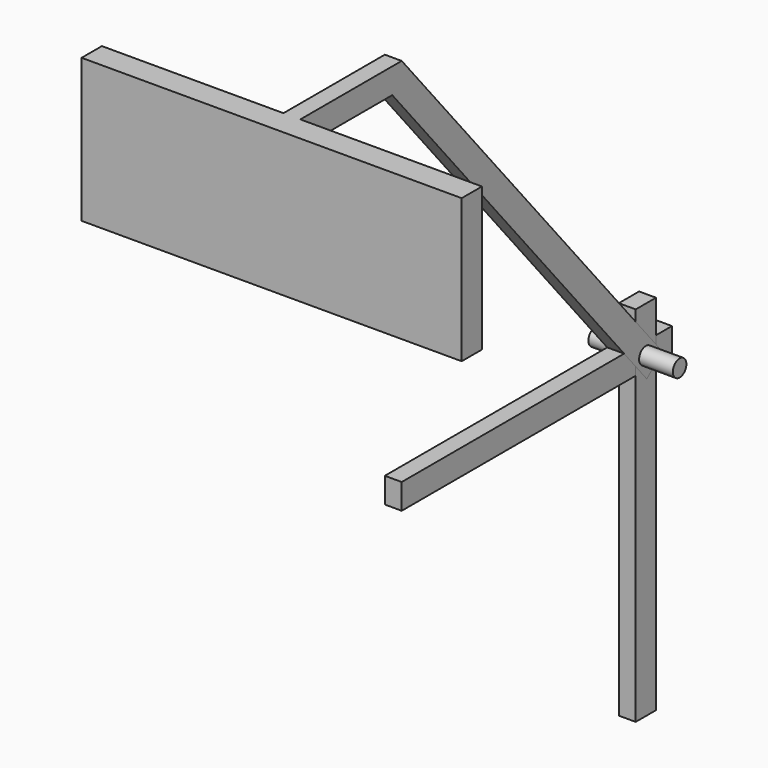
from build123d import *

# Parameters (mm, degrees)
F0_R     = 1
F1_DEPTH = 1
F2_DEPTH = 1
F3_DEPTH = 1
F4_DEPTH = 22.5
F5_DEPTH = 5


with BuildPart() as f1:
    # F0 (on Right) → F1 (new body, symmetric)
    with BuildSketch(Plane.YZ):
        Polygon((51.1326146971, -37.4407144668), (49.4158543164, -35.3947591154), (16.5, -35.3947591154), (16.5, -38.3947591154), (51.1326146971, -38.3947591154), align=None)
        Polygon((51.1326146971, -35.3947591154), (49.4158543164, -35.3947591154), (51.1326146971, -37.4407144668), align=None)
        Polygon((54.1326146971, -36.348803764), (53.3320761844, -35.3947591154), (51.1326146971, -35.3947591154), (51.1326146971, -37.4407144668), (51.9331532099, -38.3947591154), (53.956431962, -38.3947591154), (54.1326146971, -38.2469242473), align=None)
        with Locations((52.6326146971, -36.8947591154)):
            Circle(F0_R, mode=Mode.SUBTRACT)
        Polygon((51.9331532099, -38.3947591154), (51.1326146971, -37.4407144668), (51.1326146971, -38.3947591154), align=None)
        Polygon((54.1326146971, -35.3947591154), (53.3320761844, -35.3947591154), (54.1326146971, -36.348803764), align=None)
        Polygon((54.1326146971, -35.3947591154), (54.1326146971, -36.348803764), (55.0672565812, -37.4626665871), (54.1326146971, -38.2469242473), (54.1326146971, -38.3947591154), (56.5, -38.3947591154), (56.5, -35.3947591154), align=None)
        Polygon((55.0672565812, -37.4626665871), (54.1326146971, -36.348803764), (54.1326146971, -38.2469242473), align=None)
        Polygon((54.1326146971, -38.3947591154), (54.1326146971, -38.2469242473), (53.956431962, -38.3947591154), align=None)
    extrude(amount=F1_DEPTH, both=True)


with BuildPart() as f2:
    # F0 (on Right) → F2 (new body, symmetric)
    with BuildSketch(Plane.YZ):
        Polygon((51.1326146971, -31.4790881872), (51.1326146971, -32.7735429862), (53.3320761844, -35.3947591154), (54.1326146971, -35.3947591154), (54.1326146971, -31.4790881872), align=None)
        Polygon((53.3320761844, -35.3947591154), (51.1326146971, -32.7735429862), (51.1326146971, -35.3947591154), align=None)
        Polygon((54.1326146971, -36.348803764), (53.3320761844, -35.3947591154), (51.1326146971, -35.3947591154), (51.1326146971, -37.4407144668), (51.9331532099, -38.3947591154), (53.956431962, -38.3947591154), (54.1326146971, -38.2469242473), align=None)
        with Locations((52.6326146971, -36.8947591154)):
            Circle(F0_R, mode=Mode.SUBTRACT)
        Polygon((51.9331532099, -38.3947591154), (51.1326146971, -37.4407144668), (51.1326146971, -38.3947591154), align=None)
        Polygon((54.1326146971, -35.3947591154), (53.3320761844, -35.3947591154), (54.1326146971, -36.348803764), align=None)
        Polygon((52.7691232518, -39.3910294162), (51.9331532099, -38.3947591154), (51.1326146971, -38.3947591154), (51.1326146971, -74.4790881872), (54.1326146971, -74.4790881872), (54.1326146971, -38.3947591154), (53.956431962, -38.3947591154), align=None)
        Polygon((53.956431962, -38.3947591154), (51.9331532099, -38.3947591154), (52.7691232518, -39.3910294162), align=None)
        Polygon((54.1326146971, -38.3947591154), (54.1326146971, -38.2469242473), (53.956431962, -38.3947591154), align=None)
    extrude(amount=F2_DEPTH, both=True)


with BuildPart() as f3:
    # F0 (on Right) → F3 (new body, symmetric)
    with BuildSketch(Plane.YZ):
        Polygon((55.0672565812, -37.4626665871), (54.1326146971, -36.348803764), (54.1326146971, -38.2469242473), align=None)
        Polygon((53.956431962, -38.3947591154), (51.9331532099, -38.3947591154), (52.7691232518, -39.3910294162), align=None)
        Polygon((54.1326146971, -36.348803764), (53.3320761844, -35.3947591154), (51.1326146971, -35.3947591154), (51.1326146971, -37.4407144668), (51.9331532099, -38.3947591154), (53.956431962, -38.3947591154), (54.1326146971, -38.2469242473), align=None)
        with Locations((52.6326146971, -36.8947591154)):
            Circle(F0_R, mode=Mode.SUBTRACT)
        Polygon((53.3320761844, -35.3947591154), (51.1326146971, -32.7735429862), (51.1326146971, -35.3947591154), align=None)
        Polygon((51.1326146971, -35.3947591154), (49.4158543164, -35.3947591154), (51.1326146971, -37.4407144668), align=None)
        Polygon((51.1326146971, -32.7735429862), (16.5, 8.5), (16.5, 5.5), (15.1010770255, 5.5), (49.4158543164, -35.3947591154), (51.1326146971, -35.3947591154), align=None)
        Polygon((16.5, 8.5), (1.5, 8.5), (1.5, 5.5), (15.1010770255, 5.5), (16.5, 5.5), align=None)
    extrude(amount=F3_DEPTH, both=True)

    # F0 (on Right) → F4 (join, symmetric)
    with BuildSketch(Plane.YZ):
        Polygon((1.5, 8.5), (-1.5, 8.5), (-1.5, -8.5), (1.5, -8.5), (1.5, 5.5), align=None)
    extrude(amount=F4_DEPTH, both=True)


with BuildPart() as f5:
    # F0 (on Right) → F5 (new body, symmetric)
    with BuildSketch(Plane.YZ):
        with Locations((52.6326146971, -36.8947591154)):
            Circle(F0_R)
    extrude(amount=F5_DEPTH, both=True)


solid = Compound([f1.part, f2.part, f3.part, f5.part])
